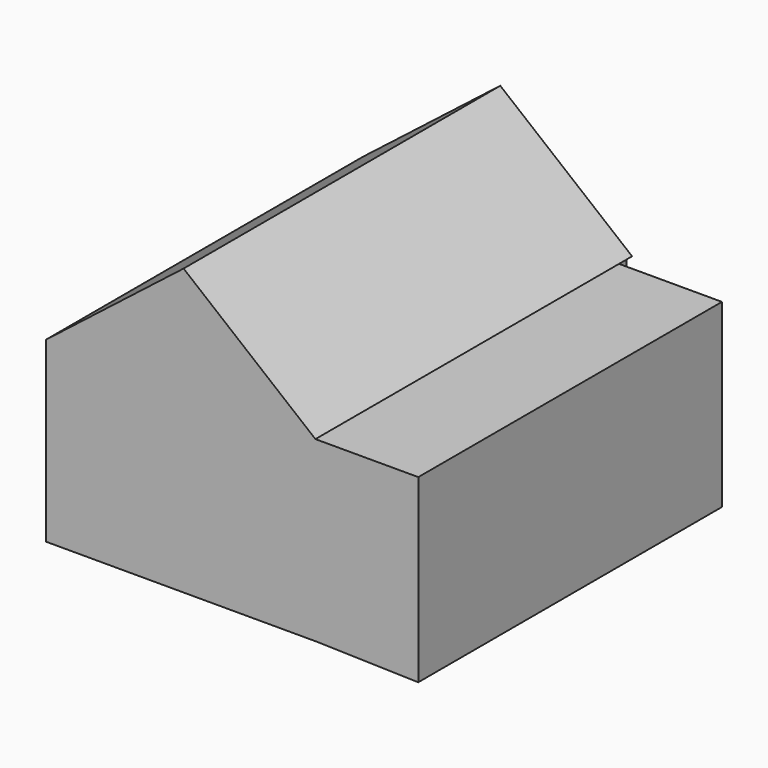
from build123d import *

# Parameters (mm, degrees)
F0_W     = 87.960623
F0_H     = 58.109455
F1_DEPTH = 127
F3_DEPTH = 129.286
F5_DEPTH = 123.952


with BuildPart() as f1:
    # F0 (on Front) → F1 (new body)
    with BuildSketch(Plane.XZ):
        with Locations((-0.927712, 2.336059)):
            Rectangle(F0_W, F0_H)
        with Locations((-0.927712, 2.336059)):
            Rectangle(F0_W, F0_H)
    extrude(amount=F1_DEPTH)

    # F2 (on face) → F3 (join)
    with BuildSketch(Plane.XZ.offset(127)):
        Polygon((0, 66.431664), (-44.908024, 31.390786), (43.052599, 31.390786), align=None)
    extrude(amount=-F3_DEPTH)

    # F4 (on face) → F5 (join)
    with BuildSketch(Plane.XZ.offset(127)):
        Polygon((76.651916, 31.390786), (43.052599, 31.390786), (43.052599, -26.718669), (76.651916, -27.594689), align=None)
    extrude(amount=-F5_DEPTH)


solid = f1.part
